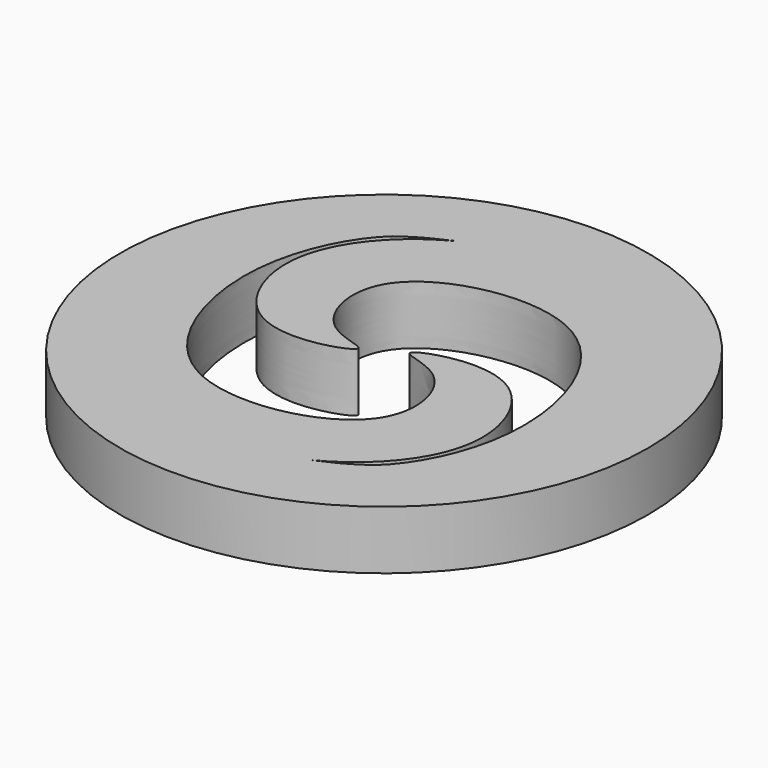
from build123d import *

# Parameters (mm, degrees)
F0_R     = 22.5
F0_R_2   = 16.5
F1_DEPTH = 5
F3_DEPTH = 5
F5_COUNT = 2


with BuildPart() as f1:
    # F0 (on Top) → F1 (new body)
    with BuildSketch(Plane.XY):
        Circle(F0_R)
        Circle(F0_R_2, mode=Mode.SUBTRACT)
    extrude(amount=F1_DEPTH)

    # F2 (on face) → F3 (join, through all)
    with BuildSketch(Plane.XY.offset(5)):
        with BuildLine():
            add(Edge.make_bspline(
                [(-9.8807848162, 13.214389559), (-11.7458879603, 11.538317243), (-16.0645797351, 3.6712464326), (-10.1631077141, -13.9244927875), (8.435782648, -10.0165913702), (6.0179885094, 0.1488749038), (0.2727886077, 0.5074473788), (3.9683446978, 2.2473833588), (10.5965668148, 2.3891128473), (14.8087073789, -7.1708634786), (6.8853602241, -17.1157953), (-8.1545530295, -18.2998153147), (-16.0931799093, -12.7685357962), (-20.9776485197, 0.0924136968), (-17.772591, 11.0213781472), (-7.030414518, 19.4804071388), (4.3175125262, 20.4638472645), (19.451231853, 9.8458846452), (0.0269456368, 19.8127497057), (-6.0103551415, 15.0068143621), (-8.7019101923, 14.2737835808), (-9.8807848162, 13.214389559)],
                knots=[0, 0, 0, 0, 0.0557871417, 0.1237532752, 0.1872603078, 0.2337068973, 0.2661950343, 0.2919644763, 0.3350089939, 0.3848631234, 0.4425274554, 0.507263173, 0.5593833571, 0.6212991901, 0.6781687165, 0.7396646471, 0.8003707157, 0.8540404812, 0.9171993391, 0.9647386549, 1, 1, 1, 1], degree=3))
        make_face()
    extrude(amount=-F3_DEPTH)

    # F5: F1 ×2 about axis
    f5_axis = Axis((0, 0, -1.7723124474), (0, 0, -1))


with BuildPart() as f1_1:
    add(f1.part)
    for i in range(1, F5_COUNT):
        add(f1.part.rotate(f5_axis, i * 360 / F5_COUNT))


solid = f1_1.part
